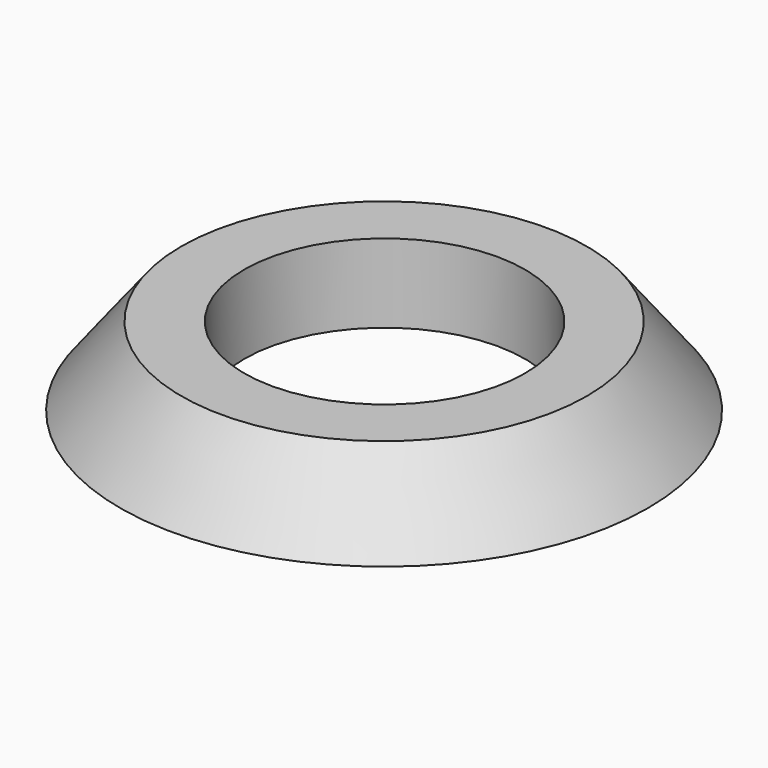
from build123d import *

# Parameters (mm, degrees)
F2_R     = 11.25
F2_R_2   = 0.042489
F3_DEPTH = 7


with BuildPart() as f1:
    # F0 (on Front) → F1 (revolve)
    with BuildSketch(Plane.XZ):
        Polygon((0, 6.3), (0, 0), (4.749354, 0), (21.1, 0), (16.2, 6.3), align=None)
    revolve(axis=Axis((-0.042489, 0, 4.299833), (0, 0, -1)))

    # F2 (on face) → F3 (cut)
    with BuildSketch(Plane(origin=(0, 0, 0), x_dir=(1, 0, 0), z_dir=(0, 0, -1))):
        Circle(F2_R)
        with Locations((-0.042489, 0)):
            Circle(F2_R_2, mode=Mode.SUBTRACT)
    extrude(amount=-F3_DEPTH, mode=Mode.SUBTRACT)


solid = f1.part
